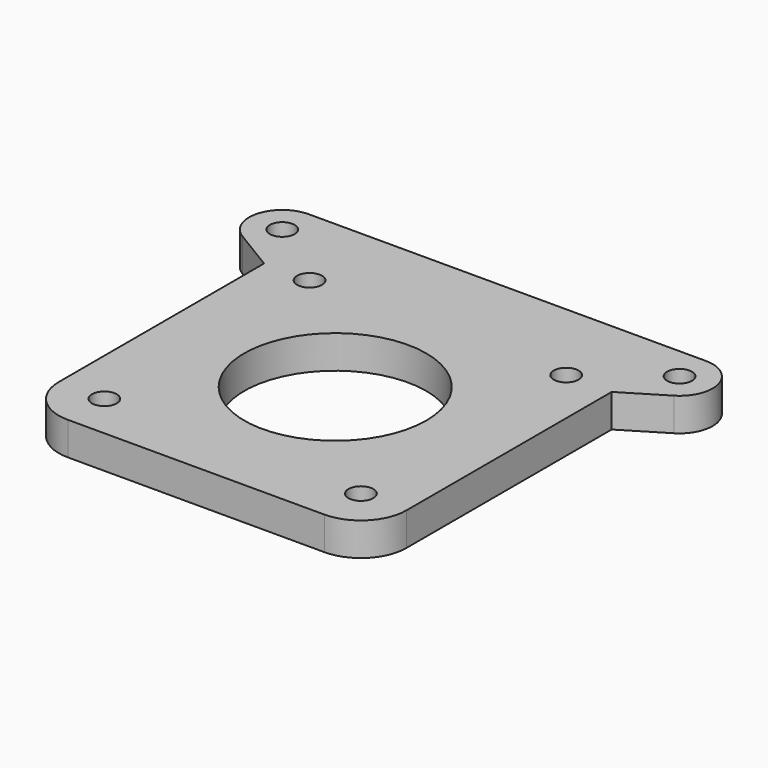
from build123d import *

# Parameters (mm, degrees)
F0_R     = 1.5
F0_R_2   = 11
F1_DEPTH = 4


with BuildPart() as f1:
    # F0 (on Top) → F1 (new body)
    with BuildSketch(Plane.XY):
        with BuildLine():
            ThreePointArc((-21, -15.5), (-19.389087, -19.389087), (-15.5, -21))
            Line((-15.5, -21), (15.5, -21))
            ThreePointArc((15.5, -21), (19.389087, -19.389087), (21, -15.5))
            Line((21, -15.5), (21, 15.5))
            Line((21, 15.5), (26.075443, 18.580565))
            ThreePointArc((26.075443, 18.580565), (27.852125, 23.077557), (24, 26))
            Line((24, 26), (-24, 26))
            ThreePointArc((-24, 26), (-27.852125, 23.077557), (-26.075443, 18.580565))
            Line((-26.075443, 18.580565), (-21, 15.5))
            Line((-21, 15.5), (-21, -15.5))
        make_face()
        with Locations((-15.5, -15.5)):
            Circle(F0_R, mode=Mode.SUBTRACT)
        with Locations((15.5, -15.5)):
            Circle(F0_R, mode=Mode.SUBTRACT)
        Circle(F0_R_2, mode=Mode.SUBTRACT)
        with Locations((-15.5, 15.5)):
            Circle(F0_R, mode=Mode.SUBTRACT)
        with Locations((-24, 22)):
            Circle(F0_R, mode=Mode.SUBTRACT)
        with Locations((15.5, 15.5)):
            Circle(F0_R, mode=Mode.SUBTRACT)
        with Locations((24, 22)):
            Circle(F0_R, mode=Mode.SUBTRACT)
    extrude(amount=F1_DEPTH)


solid = f1.part
